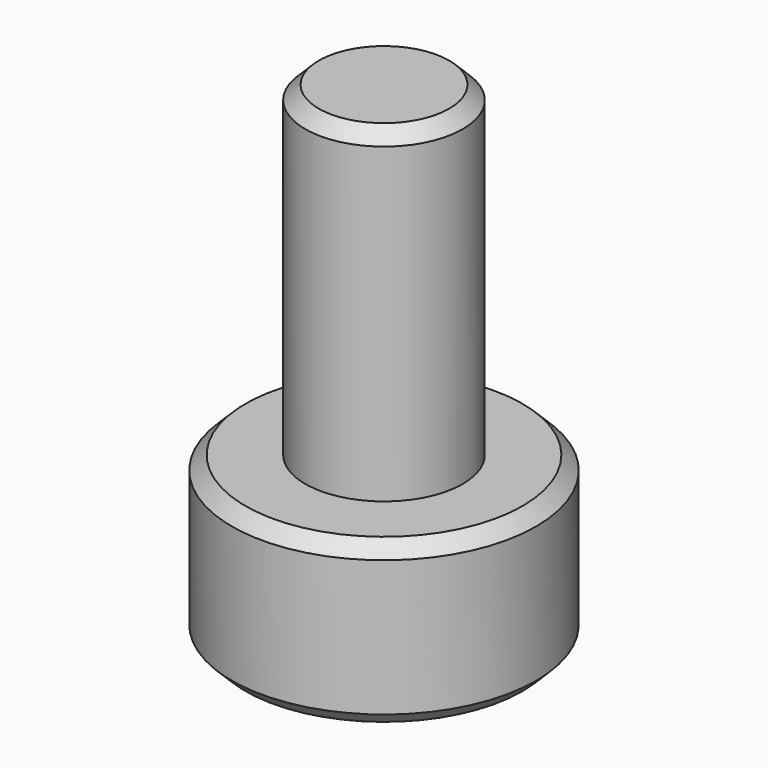
from build123d import *

# Parameters (mm, degrees)
SKETCH_R     = 2.8
PAD_DEPTH    = 3
SKETCH001_R  = 1.45
PAD001_DEPTH = 6
POCKET_DEPTH = 2
CHAMFER_SIZE = 0.25


with BuildPart() as part:
    # Sketch → Pad (new body)
    with BuildSketch(Plane.XY):
        Circle(SKETCH_R)
    extrude(amount=PAD_DEPTH)

    # Sketch001 (on Face3 of Pad) → Pad001 (join)
    with BuildSketch(Plane.XY.offset(3)):
        Circle(SKETCH001_R)
    extrude(amount=PAD001_DEPTH)

    # Sketch002 (on Face2 of Pad001) → Pocket (cut)
    with BuildSketch(Plane(origin=(0, 0, 0), x_dir=(1, 0, 0), z_dir=(0, 0, -1))):
        Polygon((1.259542, 0.814588), (-0.075682, 1.49809), (-1.335225, 0.683502), (-1.259542, -0.814588), (0.075682, -1.49809), (1.335225, -0.683502), align=None)
    extrude(amount=-POCKET_DEPTH, mode=Mode.SUBTRACT)

    # Chamfer
    chamfer_edges = [part.edges().sort_by_distance(p)[0] for p in [
        (-2.8, 0, 3),
        (-2.8, 0, 0),
        (1.297384, -0.065543, 0),
        (0.705454, 1.090796, 0),
        (-0.59193, 1.156339, 0),
        (-1.297384, 0.065543, 0),
        (-0.705454, -1.090796, 0),
        (0.59193, -1.156339, 0),
        (-1.45, 0, 9),
    ]]
    chamfer(chamfer_edges, length=CHAMFER_SIZE)


solid = part.part
